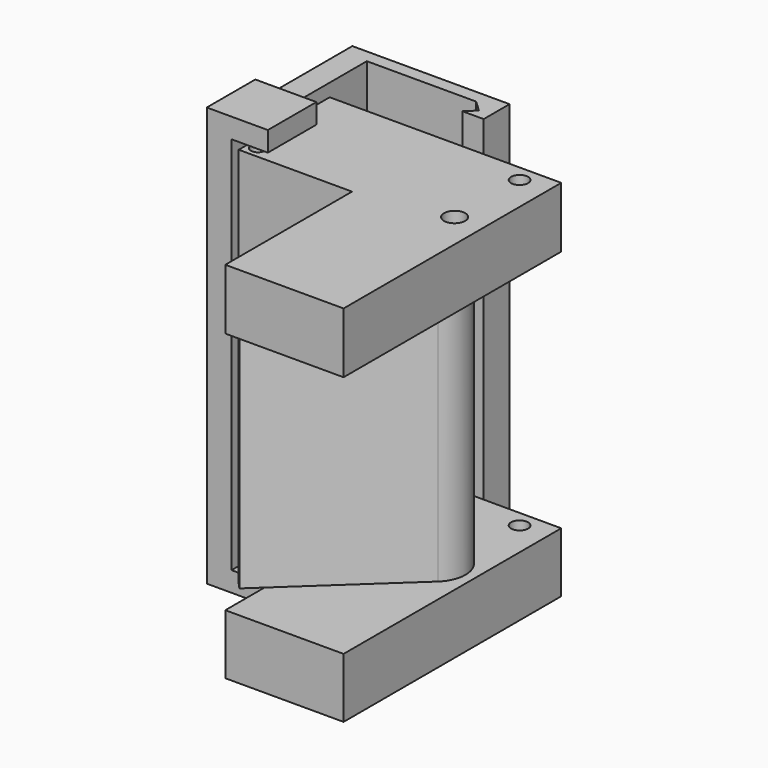
from build123d import *

# Parameters (mm, degrees)
SKETCH_R        = 1.744844
SKETCH_R_2      = 1.408452
SKETCH_R_3      = 1.173705
PAD_DEPTH       = 60
SKETCH001_W     = 19.496452
SKETCH001_H     = 40.140847
POCKET_DEPTH    = 44.848774
CHAMFER_SIZE    = 10
SKETCH002_R     = 1.744844
PAD001_DEPTH    = 40
FILLET_R        = 5
FILLET001_R     = 1
FILLET002_R     = 3
PAD002_DEPTH    = 30
SKETCH004_W     = 10.069124
SKETCH004_H     = 3.2845556667
SKETCH004_W_2   = 10.1873559999
POCKET001_DEPTH = 20
PAD003_DEPTH    = 62.529275


with BuildPart() as corps:
    # Sketch → Pad (new body)
    with BuildSketch(Plane.XY):
        Polygon((0, 0), (-18.676844, 0), (-18.676844, 18.735422), (19.496452, 18.735422), (19.496452, -26.112352), (0, -26.112352), align=None)
        with Locations((14.739244, 2.717445)):
            Circle(SKETCH_R, mode=Mode.SUBTRACT)
        with Locations((14.819427, 16.001925)):
            Circle(SKETCH_R_2, mode=Mode.SUBTRACT)
        with Locations((-17.019724, 1.897619)):
            Circle(SKETCH_R_3, mode=Mode.SUBTRACT)
    extrude(amount=PAD_DEPTH)

    # Sketch001 (on Face3 of Pad) → Pocket (cut, through all)
    with BuildSketch(Plane(origin=(0, 18.735422, 0), x_dir=(-1, 0, 0), z_dir=(0, 1, 0))):
        with Locations((-9.748226, 29.9426915)):
            Rectangle(SKETCH001_W, SKETCH001_H)
    extrude(amount=-POCKET_DEPTH, mode=Mode.SUBTRACT)

    # Chamfer
    chamfer_edges = [corps.edges().sort_by_distance(p)[0] for p in [
        (0, 18.735422, 29.942692),
    ]]
    chamfer(chamfer_edges, length=CHAMFER_SIZE)


with BuildPart() as corps001:
    # Sketch002 (on Face1 of CopyChamfer) → Pad001 (new body)
    with BuildSketch(Plane.XY.offset(9.872268)):
        Polygon((-8.7249473249, 23.0442047805), (13.8934580907, -1.2507139475), (-4.2878532232, -18.1773921097), (-2.3710238866, -20.2362999812), (20.0518335164, 0.6392289718), (-2.3458496685, 24.6970651752), (-0.8438262999, 26.0954387971), (-2.9813778673, 28.3914291931), align=None)
        with Locations((14.739244, 2.717445)):
            Circle(SKETCH002_R, mode=Mode.SUBTRACT)
    extrude(amount=PAD001_DEPTH)

    # Fillet
    fillet_edges = [corps001.edges().sort_by_distance(p)[0] for p in [
        (20.051834, 0.639229, 29.872268),
    ]]
    fillet(fillet_edges, radius=FILLET_R)

    # Fillet001
    fillet001_edges = [corps001.edges().sort_by_distance(p)[0] for p in [
        (-4.287853, -18.177392, 29.872268),
    ]]
    fillet(fillet001_edges, radius=FILLET001_R)

    # Fillet002
    fillet002_edges = [corps001.edges().sort_by_distance(p)[0] for p in [
        (-2.981378, 28.391429, 29.872268),
    ]]
    fillet(fillet002_edges, radius=FILLET002_R)


with BuildPart() as corps002:
    # Sketch003 (on Face1 of CopyChamfer001) → Pad002 (new body)
    with BuildSketch(Plane.XZ):
        Polygon((-19.861139, 61.1365553333), (-13.8752310001, 61.1365553333), (-13.8752310001, 64.421111), (-23.944355, 64.421111), (-23.944355, -4.6772753333), (-13.7569990001, -4.6772753333), (-13.7569990001, -1.3927196667), (-19.861139, -1.3927196667), align=None)
    extrude(amount=-PAD002_DEPTH)

    # Sketch004 (on Face10 of Pad002) → Pocket001 (cut)
    with BuildSketch(Plane(origin=(0, 30, 0), x_dir=(-1, 0, 0), z_dir=(0, 1, 0))):
        with Locations((18.909793, 62.7788331667)):
            Rectangle(SKETCH004_W, SKETCH004_H)
        with Locations((18.8506770001, -3.0349975)):
            Rectangle(SKETCH004_W_2, SKETCH004_H)
    extrude(amount=-POCKET001_DEPTH, mode=Mode.SUBTRACT)

    # Sketch005 (on Face11 of Pocket001) → Pad003 (join)
    with BuildSketch(Plane.XY.offset(61.1365553333)):
        Polygon((-19.861139, 30), (1.966555, 30), (1.966555, 24.667326), (-1.546323, 24.667326), (0, 26.14539), (-1.840461, 27.875839), (-19.861139, 27.875839), align=None)
    extrude(amount=-PAD003_DEPTH)


solid = Compound([corps.part, corps001.part, corps002.part])
